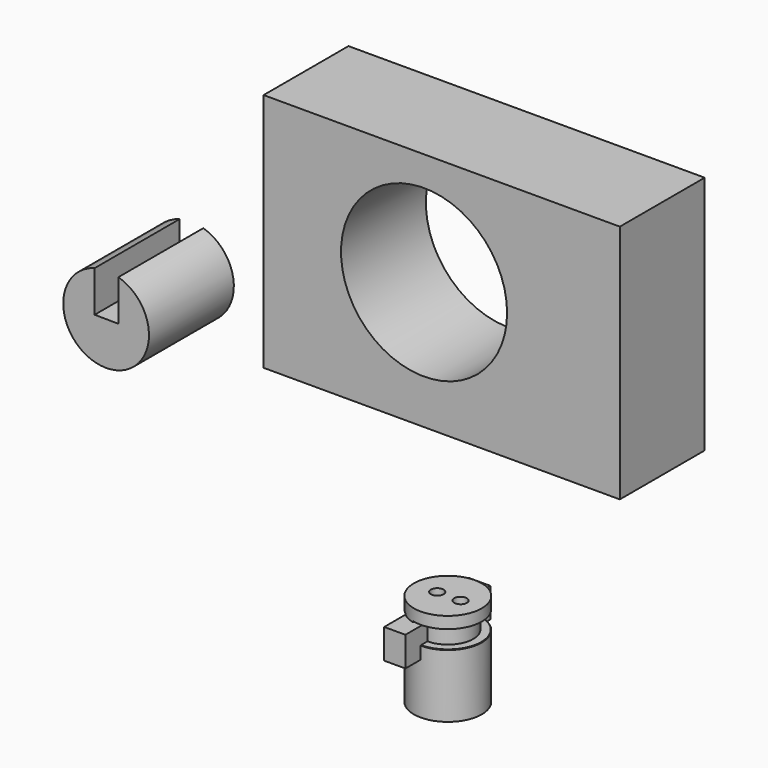
from build123d import *

# Parameters (mm, degrees)
F0_R      = 6
F1_DEPTH  = 3.75
F2_R      = 8
F3_DEPTH  = 15
F4_SIZE   = 0.1
F6_DEPTH  = 3.75
F7_W      = 5
F7_H      = 25
F8_DEPTH  = 3
F9_W      = 5
F9_H      = 25
F10_DEPTH = 7
F11_R     = 8
F12_DEPTH = 3
F13_R     = 1.5
F14_DEPTH = 3
F15_R     = 1.5
F16_DEPTH = 10
F17_R     = 1.25
F18_DEPTH = 6
F19_R     = 1.25
F20_DEPTH = 10
F21_R     = 1.5
F22_DEPTH = 0.25
F23_R     = 10.1040032944
F24_DEPTH = 25
F25_W     = 83.9598011225
F25_H     = 56.6002205014
F25_R     = 19.5705951154
F26_DEPTH = 25
F28_DEPTH = 25


with BuildPart() as f1:
    # F0 (on Top) → F1 (new body)
    with BuildSketch(Plane.XY):
        Circle(F0_R)
    extrude(amount=F1_DEPTH)

    # F2 (on face) → F3 (join)
    with BuildSketch(Plane(origin=(0, 0, 0), x_dir=(1, 0, 0), z_dir=(0, 0, -1))):
        Circle(F2_R)
    extrude(amount=F3_DEPTH)

    # F4
    f4_edges = [f1.edges().sort_by_distance(p)[0] for p in [
        (-6, 0, 3.75),
        (-8, 0, 0),
    ]]
    chamfer(f4_edges, length=F4_SIZE)

    # F5 (on face) → F6 (cut, through all)
    with BuildSketch(Plane.XY.offset(3.75)):
        with BuildLine():
            Line((0, -6), (0, 6))
            ThreePointArc((0, 6), (-6, 0), (0, -6))
        make_face()
    extrude(amount=-F6_DEPTH, mode=Mode.SUBTRACT)

    # F7 (on face) → F8 (cut)
    with BuildSketch(Plane.XY):
        with Locations((-2.5, 0)):
            Rectangle(F7_W, F7_H)
    extrude(amount=-F8_DEPTH, mode=Mode.SUBTRACT)

    # F17 (on face) → F18 (cut)
    with BuildSketch(Plane.XY.offset(-3)):
        with Locations((-2.5, 0)):
            Circle(F17_R)
    extrude(amount=-F18_DEPTH, mode=Mode.SUBTRACT)

    # F19 (on face) → F20 (cut)
    with BuildSketch(Plane.XY.offset(3.75)):
        with Locations((3, 0)):
            Circle(F19_R)
    extrude(amount=-F20_DEPTH, mode=Mode.SUBTRACT)


with BuildPart() as f10:
    # F9 (on face) → F10 (new body)
    with BuildSketch(Plane.XY.offset(-3)):
        with Locations((-2.5, 0)):
            Rectangle(F9_W, F9_H)
    extrude(amount=F10_DEPTH)


with BuildPart() as f12:
    # F11 (on face) → F12 (new body)
    with BuildSketch(Plane.XY.offset(4)):
        Circle(F11_R)
    extrude(amount=F12_DEPTH)

    # F13 (on face) → F14 (cut, through all)
    with BuildSketch(Plane.XY.offset(7)):
        with Locations((3, 0)):
            Circle(F13_R)
    extrude(amount=-F14_DEPTH, mode=Mode.SUBTRACT)


with BuildPart() as f16_tool:
    # F15 (on face) → F16 (new body, through all)
    with BuildSketch(Plane.XY.offset(7)):
        with Locations((-2.5, 0)):
            Circle(F15_R)
    extrude(amount=-F16_DEPTH)


with BuildPart() as f10_1:
    add(f10.part)

    # F16: cut by f16_tool
    add(f16_tool.part, mode=Mode.SUBTRACT)


with BuildPart() as f12_1:
    add(f12.part)

    # F16: cut by f16_tool
    add(f16_tool.part, mode=Mode.SUBTRACT)

    # F21 (on face) → F22 (cut)
    with BuildSketch(Plane(origin=(0, 0, 4), x_dir=(1, 0, 0), z_dir=(0, 0, -1))):
        with BuildLine():
            Line((-2, -1.4142135624), (-2, -7.7459666924))
            ThreePointArc((-2, -7.7459666924), (4.8989794856, -6.3245553203), (8, 0))
            ThreePointArc((8, 0), (4.8989794856, 6.3245553203), (-2, 7.7459666924))
            Line((-2, 7.7459666924), (-2, 1.4142135624))
            ThreePointArc((-2, 1.4142135624), (-1.2752551286, 0.8660254038), (-1, 0))
            ThreePointArc((-1, 0), (-1.2752551286, -0.8660254038), (-2, -1.4142135624))
        make_face()
        with Locations((3, 0)):
            Circle(F21_R, mode=Mode.SUBTRACT)
        with BuildLine():
            ThreePointArc((-5, 6.2449979984), (-8, 0), (-5, -6.2449979984))
            Line((-5, -6.2449979984), (-5, 6.2449979984))
        make_face()
    extrude(amount=-F22_DEPTH, mode=Mode.SUBTRACT)


with BuildPart() as f24:
    # F23 (on Front) → F24 (new body)
    with BuildSketch(Plane.XZ):
        with Locations((-60.5412572622, 54.8605136573)):
            Circle(F23_R)
    extrude(amount=F24_DEPTH)

    # F27 (on face) → F28 (cut)
    with BuildSketch(Plane.XZ.offset(25)):
        with BuildLine():
            Line((-57.6432645321, 54.8605136573), (-57.6432645321, 64.5400033499))
            ThreePointArc((-57.6432645321, 64.5400033499), (-60.4374425407, 64.9639836096), (-63.2397426056, 64.5975080306))
            Line((-63.2397426056, 64.5975080306), (-63.2397426056, 54.920747813))
            Line((-63.2397426056, 54.920747813), (-57.6432645321, 54.8605136573))
        make_face()
    extrude(amount=-F28_DEPTH, mode=Mode.SUBTRACT)


with BuildPart() as f26:
    # F25 (on Front) → F26 (new body)
    with BuildSketch(Plane.XZ):
        with Locations((18.5613604262, 85.1547084749)):
            Rectangle(F25_W, F25_H)
        with Locations((14.3980616704, 86.9018658996)):
            Circle(F25_R, mode=Mode.SUBTRACT)
    extrude(amount=F26_DEPTH)


solid = Compound([f1.part, f10_1.part, f12_1.part, f24.part, f26.part])
